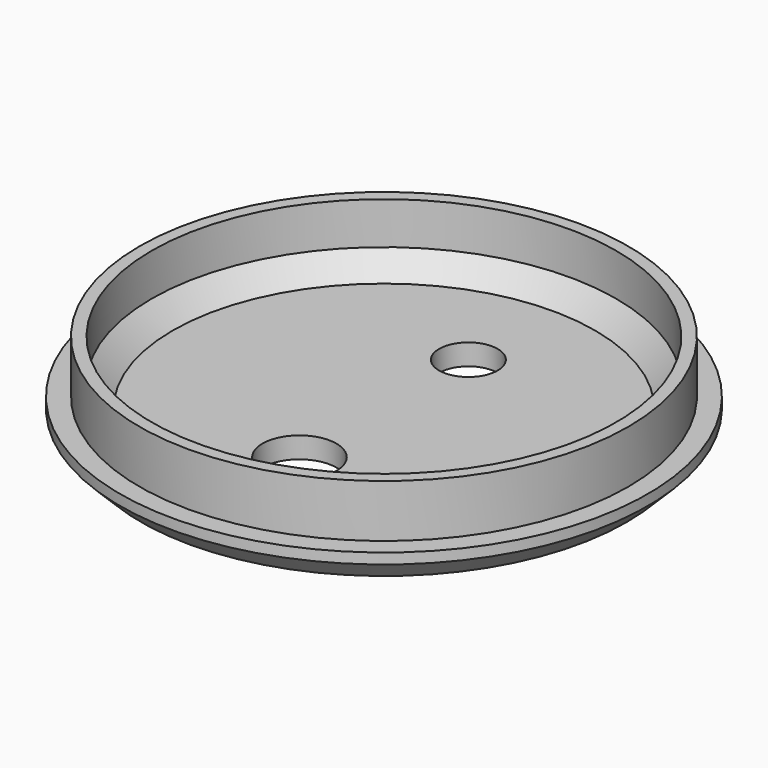
from build123d import *

# Parameters (mm, degrees)
SKETCH003_R             = 23.15
PAD002_DEPTH            = 5
SKETCH004_R             = 25
PAD003_DEPTH            = 3
CHAMFER002_SIZE         = 2
SKETCH005_R             = 22
POCKET001_DEPTH         = 6
CHAMFER003_SIZE         = 2
SKETCH006_R             = 2.775
SKETCH006_R_2           = 3.5
POCKET002_DEPTH         = 5
BODY001_PLACEMENT_ANGLE = 180


with BuildPart() as part:
    # Sketch003 → Pad002 (new body)
    with BuildSketch(Plane.XY):
        Circle(SKETCH003_R)
    extrude(amount=PAD002_DEPTH)

    # Sketch004 (on Face3 of Pad002) → Pad003 (join)
    with BuildSketch(Plane.XY.offset(5)):
        Circle(SKETCH004_R)
    extrude(amount=PAD003_DEPTH)

    # Chamfer002
    chamfer002_edges = [part.edges().sort_by_distance(p)[0] for p in [
        (-25, 0, 8),
    ]]
    chamfer(chamfer002_edges, length=CHAMFER002_SIZE)

    # Sketch005 (on Face6 of Chamfer002) → Pocket001 (cut)
    with BuildSketch(Plane(origin=(0, 0, 0), x_dir=(1, 0, 0), z_dir=(0, 0, -1))):
        Circle(SKETCH005_R)
    extrude(amount=-POCKET001_DEPTH, mode=Mode.SUBTRACT)

    # Chamfer003
    chamfer003_edges = [part.edges().sort_by_distance(p)[0] for p in [
        (-22, 0, 6),
    ]]
    chamfer(chamfer003_edges, length=CHAMFER003_SIZE)

    # Sketch006 (on Face9 of Chamfer003) → Pocket002 (cut)
    with BuildSketch(Plane.XY.offset(8)):
        with Locations((0, 10)):
            Circle(SKETCH006_R)
        with Locations((0, -10)):
            Circle(SKETCH006_R_2)
    extrude(amount=-POCKET002_DEPTH, mode=Mode.SUBTRACT)


with BuildPart() as part_1:
    # Body001 placement: moved
    add(part.part.moved(Location((0, 0, -195))).rotate(Axis((0, 0, -195), (0, 1, 0)), BODY001_PLACEMENT_ANGLE))


solid = part_1.part
